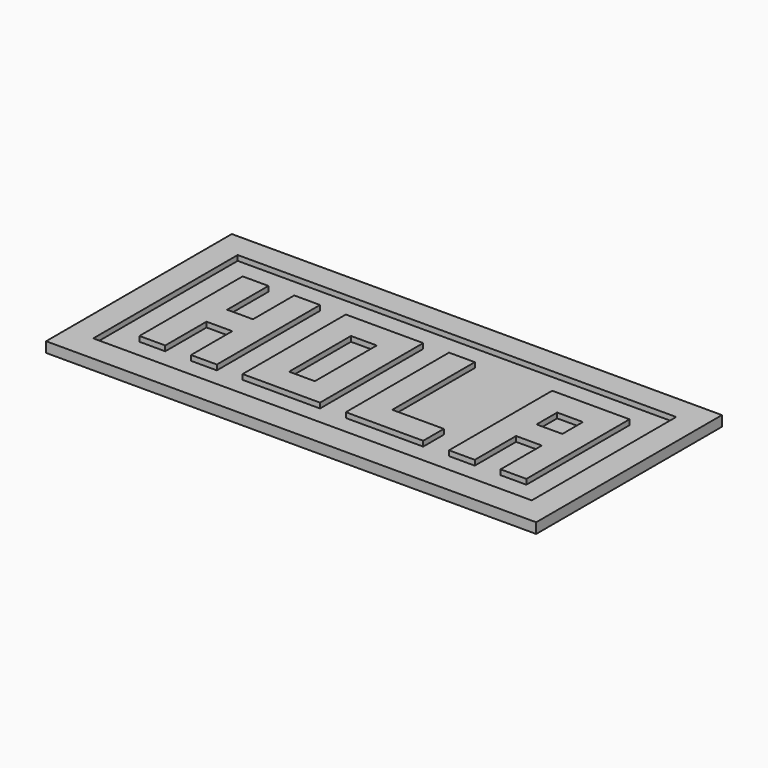
from build123d import *

# Parameters (mm, degrees)
SKETCH003_W   = 10
SKETCH003_H   = 10
PAD003_DEPTH  = 2
SKETCH001_W   = 30
SKETCH001_H   = 50
SKETCH001_W_2 = 10
SKETCH001_H_2 = 30
PAD001_DEPTH  = 2
PAD002_DEPTH  = 2
PAD_DEPTH     = 2
SKETCH004_W   = 190
SKETCH004_H   = 90
PAD004_DEPTH  = 4
SKETCH005_W   = 170
SKETCH005_H   = 70
POCKET_DEPTH  = 2


with BuildPart() as obj1:
    # Sketch003 → Pad003 (new body)
    with BuildSketch(Plane(origin=(40, 0, 0), x_dir=(1, 0, 0), z_dir=(0, 0, 1))):
        Polygon((0, 0), (0, 50), (30, 50), (30, 0), (20, 0), (20, 20), (10, 20), (10, 0), align=None)
        with Locations((15.098105, 34.798059)):
            Rectangle(SKETCH003_W, SKETCH003_H, mode=Mode.SUBTRACT)
    extrude(amount=PAD003_DEPTH)


with BuildPart() as obj2:
    # Sketch001 → Pad001 (new body)
    with BuildSketch(Plane(origin=(-40, 0, 0), x_dir=(1, 0, 0), z_dir=(0, 0, 1))):
        with Locations((15, 25)):
            Rectangle(SKETCH001_W, SKETCH001_H)
        with Locations((15, 25)):
            Rectangle(SKETCH001_W_2, SKETCH001_H_2, mode=Mode.SUBTRACT)
    extrude(amount=PAD001_DEPTH)


with BuildPart() as obj3:
    # Sketch002 → Pad002 (new body)
    with BuildSketch(Plane.XY):
        Polygon((0, 50), (0, 0), (30, 0), (30, 10), (10, 10), (10, 50), align=None)
    extrude(amount=PAD002_DEPTH)


with BuildPart() as hola:
    # Sketch → Pad (new body)
    with BuildSketch(Plane(origin=(-80, 0, 0), x_dir=(1, 0, 0), z_dir=(0, 0, 1))):
        Polygon((0, 0), (10, 0), (10, 20), (20, 20), (20, 0), (30, 0), (30, 50), (20, 50), (20, 30), (10, 30), (10, 50), (0, 50), align=None)
    extrude(amount=PAD_DEPTH)

    # Fusion: union obj1, obj2, obj3
    add(obj1.part)
    add(obj2.part)
    add(obj3.part)


with BuildPart() as hola_1:
    # Fusion placement: moved
    add(hola.part.moved(Location((0, 0, 2))))


with BuildPart() as fusion001:
    # Sketch004 → Pad004 (new body)
    with BuildSketch(Plane.XY):
        with Locations((-4.907433, 24.638643)):
            Rectangle(SKETCH004_W, SKETCH004_H)
    extrude(amount=PAD004_DEPTH)

    # Sketch005 → Pocket (cut)
    with BuildSketch(Plane.XY.offset(4)):
        with Locations((-4.929122, 25.012712)):
            Rectangle(SKETCH005_W, SKETCH005_H)
    extrude(amount=-POCKET_DEPTH, mode=Mode.SUBTRACT)

    # Fusion001: union HOLA
    add(hola_1.part)


solid = fusion001.part
